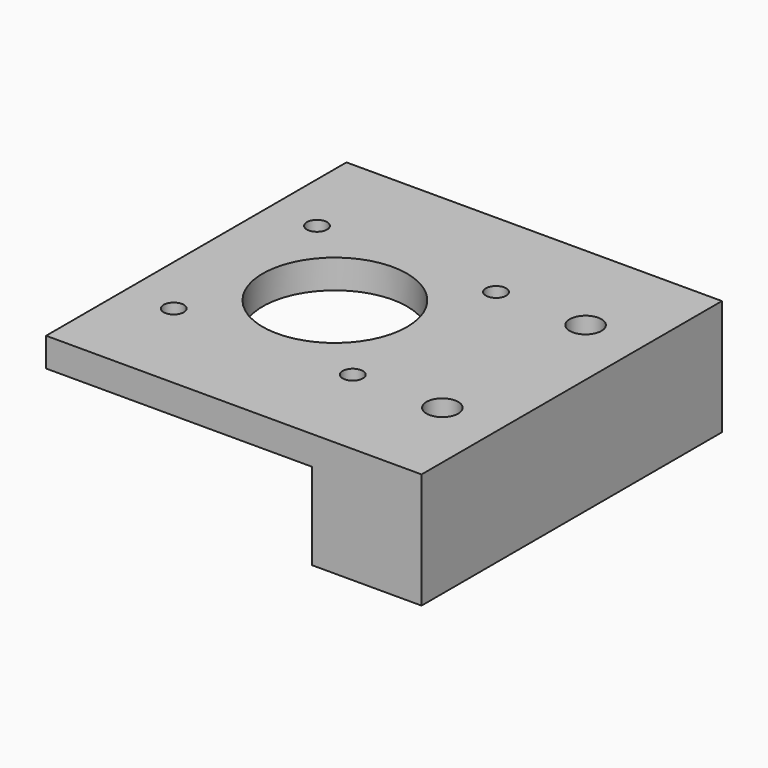
from build123d import *

# Parameters (mm, degrees)
F0_W     = 19
F0_H     = 65
F0_R     = 2.75
F0_W_2   = 46
F0_R_2   = 1.75
F0_R_3   = 12.5
F1_DEPTH = 20
F2_DEPTH = 15


with BuildPart() as f1:
    # F0 (on Top) → F1 (new body)
    with BuildSketch(Plane.XY):
        with Locations((-9.5, 32.5)):
            Rectangle(F0_W, F0_H)
        with Locations((-10, 17)):
            Circle(F0_R, mode=Mode.SUBTRACT)
        with Locations((-10, 48)):
            Circle(F0_R, mode=Mode.SUBTRACT)
        with Locations((-42, 32.5)):
            Rectangle(F0_W_2, F0_H)
        with Locations((-56.5, 17)):
            Circle(F0_R_2, mode=Mode.SUBTRACT)
        with Locations((-25.5, 17)):
            Circle(F0_R_2, mode=Mode.SUBTRACT)
        with Locations((-56.5, 48)):
            Circle(F0_R_2, mode=Mode.SUBTRACT)
        with Locations((-41, 32.5)):
            Circle(F0_R_3, mode=Mode.SUBTRACT)
        with Locations((-25.5, 48)):
            Circle(F0_R_2, mode=Mode.SUBTRACT)
    extrude(amount=F1_DEPTH)

    # F0 (on Top) → F2 (cut)
    with BuildSketch(Plane.XY):
        with Locations((-42, 32.5)):
            Rectangle(F0_W_2, F0_H)
        with Locations((-56.5, 17)):
            Circle(F0_R_2, mode=Mode.SUBTRACT)
        with Locations((-25.5, 17)):
            Circle(F0_R_2, mode=Mode.SUBTRACT)
        with Locations((-56.5, 48)):
            Circle(F0_R_2, mode=Mode.SUBTRACT)
        with Locations((-41, 32.5)):
            Circle(F0_R_3, mode=Mode.SUBTRACT)
        with Locations((-25.5, 48)):
            Circle(F0_R_2, mode=Mode.SUBTRACT)
    extrude(amount=F2_DEPTH, mode=Mode.SUBTRACT)


solid = f1.part
